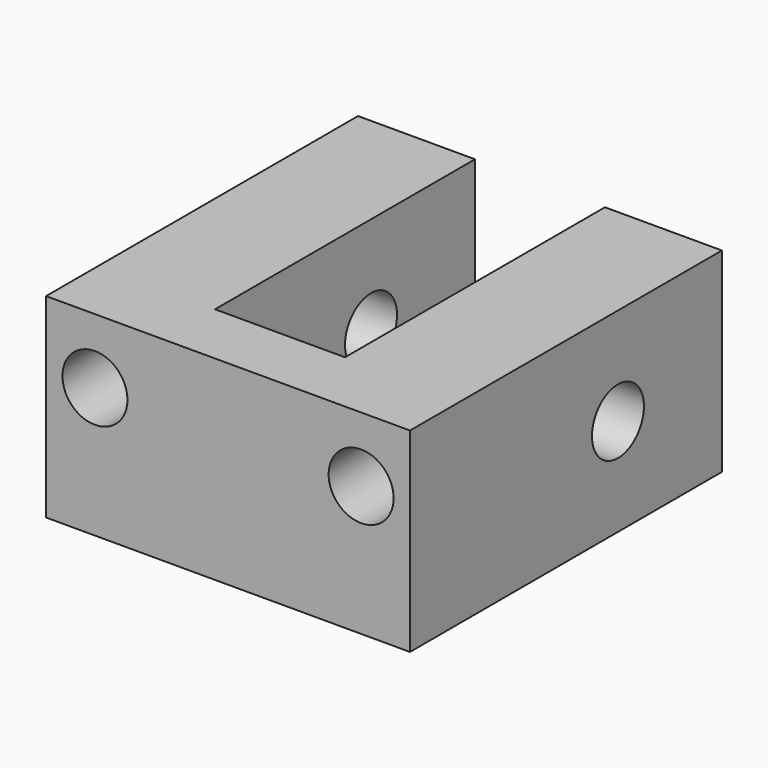
from build123d import *

# Parameters (mm, degrees)
F1_DEPTH = 9.525
F2_R     = 3.175
F3_DEPTH = 12.7
F4_R     = 3.175
F5_DEPTH = 35.561


with BuildPart() as f1:
    # F0 (on Top) → F1 (new body, symmetric)
    with BuildSketch(Plane.XY):
        Polygon((-17.78, 38.1), (-17.78, 0), (17.78, 0), (17.78, 38.1), (6.35, 38.1), (6.35, 6.35), (-6.35, 6.35), (-6.35, 38.1), align=None)
    extrude(amount=F1_DEPTH, both=True)

    # F2 (on face) → F3 (cut)
    with BuildSketch(Plane.XZ):
        with Locations((-13.0048, 3.175)):
            Circle(F2_R)
        with Locations((13.0048, 3.175)):
            Circle(F2_R)
    extrude(amount=-F3_DEPTH, mode=Mode.SUBTRACT)

    # F4 (on face) → F5 (cut, through all)
    with BuildSketch(Plane.YZ.offset(17.78)):
        with Locations((25.4, 0)):
            Circle(F4_R)
    extrude(amount=-F5_DEPTH, mode=Mode.SUBTRACT)


solid = f1.part
